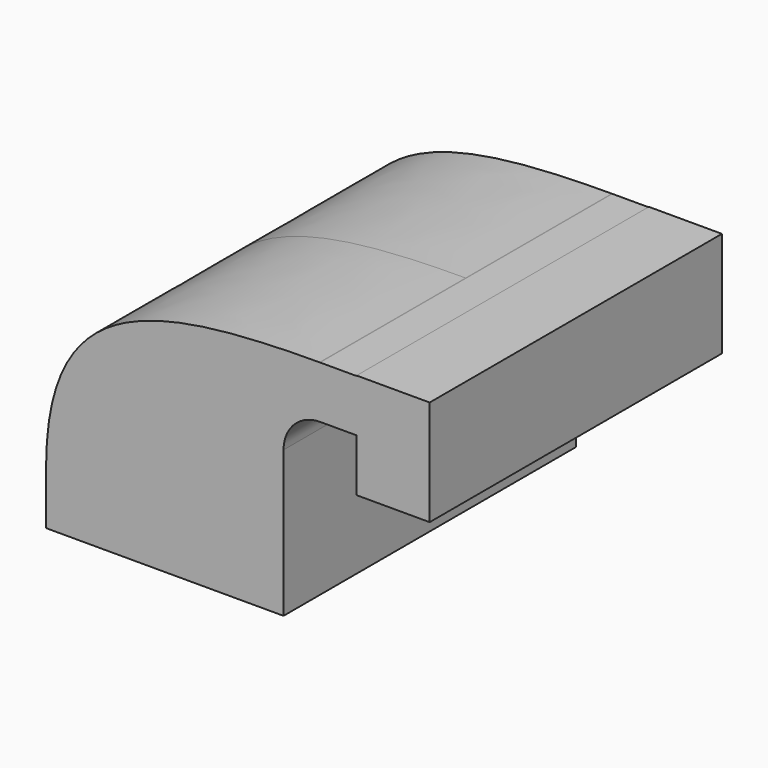
from build123d import *

# Parameters (mm, degrees)
F1_DEPTH = 63.5


with BuildPart() as f1:
    # F0 (on Front) → F1 (new body, symmetric)
    with BuildSketch(Plane.XZ):
        Polygon((-41.275, -9.525), (41.275, -9.525), (41.275, 9.525), (23.111848, 9.525), (-41.275, 9.525), align=None)
        with BuildLine():
            Line((23.111848, 9.525), (41.275, 9.525))
            Line((41.275, 9.525), (41.275, 41.275))
            ThreePointArc((41.275, 41.275), (44.994744, 50.255256), (53.975, 53.975))
            Line((53.975, 53.975), (66.675, 53.975))
            Line((66.675, 53.975), (66.675, 72.138152))
            Line((66.675, 72.138152), (53.975, 72.138152))
            ThreePointArc((53.975, 72.138152), (53.883431, 72.138016), (53.791864, 72.137608))
            ThreePointArc((53.791864, 72.137608), (32.086803, 63.033699), (23.111848, 41.275))
            Line((23.111848, 41.275), (23.111848, 9.525))
        make_face()
        with BuildLine():
            add(Edge.make_bspline(
                [(-41.275, 9.525), (-40.953308, 63.672334), (-6.200092, 71.951322), (53.791864, 72.137608)],
                knots=[0, 0, 0, 0, 113.870886, 113.870886, 113.870886, 113.870886], degree=3))
            Line((-41.275, 9.525), (23.111848, 9.525))
            Line((23.111848, 9.525), (23.111848, 41.275))
            ThreePointArc((23.111848, 41.275), (32.086803, 63.033699), (53.791864, 72.137608))
        make_face()
        Polygon((66.675, 72.138152), (66.675, 53.975), (66.675, 35.663907), (92.075, 35.663907), (92.075, 72.286093), (66.675, 72.286093), align=None)
    extrude(amount=F1_DEPTH, both=True)


solid = f1.part
